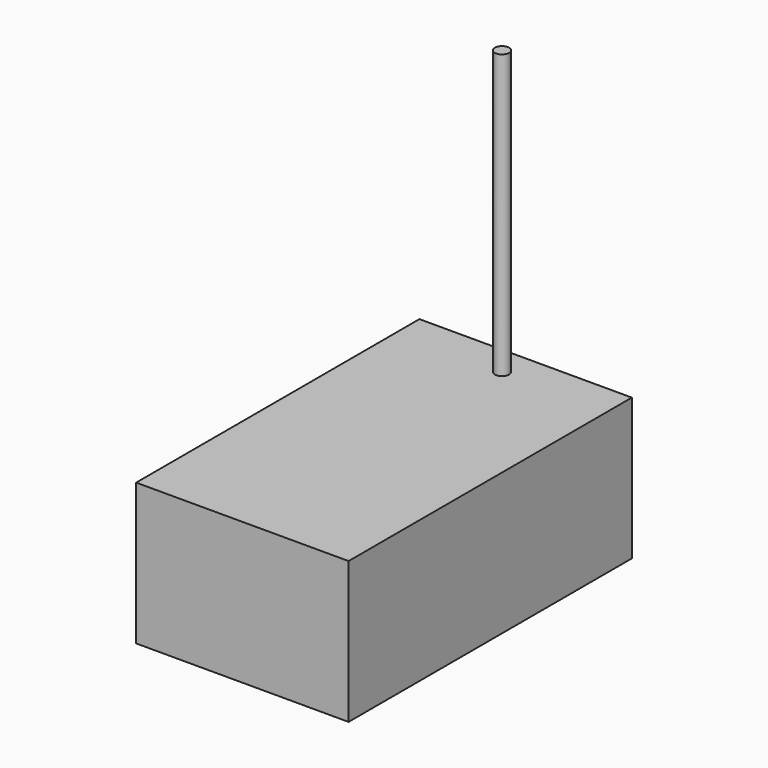
from build123d import *

# Parameters (mm, degrees)
F0_W     = 150
F0_H     = 250
F1_DEPTH = 100
F2_T     = -2.5
F3_R     = 5
F4_DEPTH = 200


with BuildPart() as f1:
    # F0 (on Top) → F1 (new body)
    with BuildSketch(Plane.XY):
        with Locations((0, -125)):
            Rectangle(F0_W, F0_H)
    extrude(amount=F1_DEPTH)

    # F2
    f2_openings = [f1.faces().sort_by_distance(p)[0] for p in [
        (0, -125, 0),
    ]]
    offset(amount=F2_T, openings=f2_openings)

    # F3 (on face) → F4 (join)
    with BuildSketch(Plane.XY.offset(100)):
        with Locations((0, -20.85017)):
            Circle(F3_R)
    extrude(amount=F4_DEPTH)


solid = f1.part
